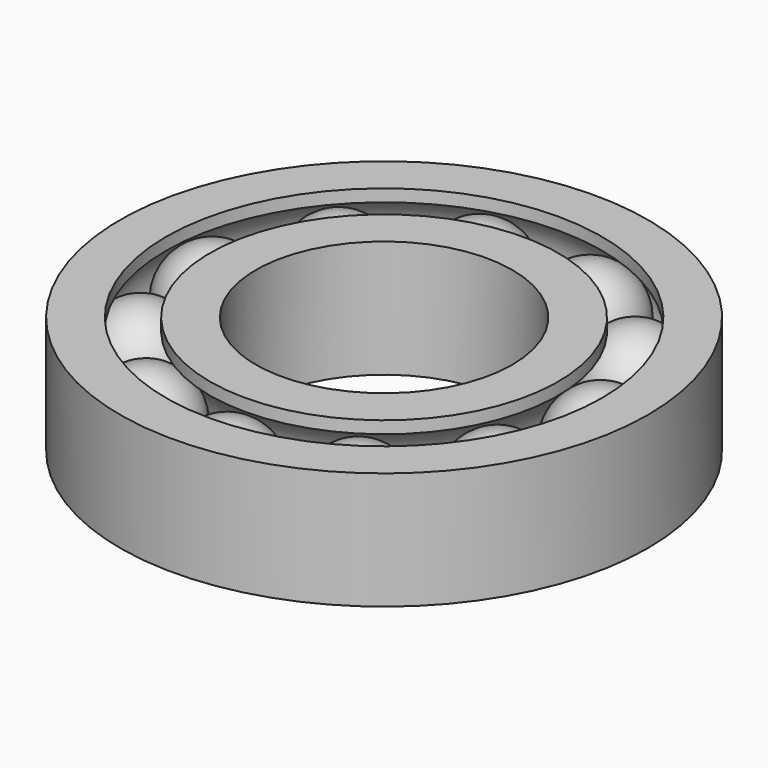
from build123d import *

# Parameters (mm, degrees)
F0_R     = 18
F0_R_2   = 8.75
F1_DEPTH = 8
F6_COUNT = 11
F7_W     = 2.2
F7_H     = 0.3


with BuildPart() as f1:
    # F0 (on Top) → F1 (new body)
    with BuildSketch(Plane.XY):
        Circle(F0_R)
        Circle(F0_R_2, mode=Mode.SUBTRACT)
    extrude(amount=F1_DEPTH)

    # F2 (on Right) → F3 (revolve, cut)
    with BuildSketch(Plane.YZ):
        with BuildLine():
            Line((-13.375, 8), (-14.875, 8))
            Line((-14.875, 8), (-14.875, 7.162278))
            ThreePointArc((-14.875, 7.162278), (-14.143774, 7.414526), (-13.375, 7.5))
            Line((-13.375, 7.5), (-13.375, 8))
        make_face()
        with BuildLine():
            Line((-11.875, 8), (-13.375, 8))
            Line((-13.375, 8), (-13.375, 7.5))
            ThreePointArc((-13.375, 7.5), (-12.606226, 7.414526), (-11.875, 7.162278))
            Line((-11.875, 7.162278), (-11.875, 8))
        make_face()
        with BuildLine():
            ThreePointArc((-13.375, 7.5), (-14.143774, 7.414526), (-14.875, 7.162278))
            ThreePointArc((-14.875, 7.162278), (-16.875, 4), (-14.875, 0.837722))
            ThreePointArc((-14.875, 0.837722), (-14.143774, 0.585474), (-13.375, 0.5))
            Line((-13.375, 0.5), (-13.375, 7.5))
        make_face()
        with BuildLine():
            ThreePointArc((-11.875, 7.162278), (-12.606226, 7.414526), (-13.375, 7.5))
            Line((-13.375, 7.5), (-13.375, 0.5))
            ThreePointArc((-13.375, 0.5), (-12.606226, 0.585474), (-11.875, 0.837722))
            ThreePointArc((-11.875, 0.837722), (-10.41696, 2.129171), (-9.875, 4))
            ThreePointArc((-9.875, 4), (-10.41696, 5.870829), (-11.875, 7.162278))
        make_face()
        with BuildLine():
            ThreePointArc((-13.375, 0.5), (-14.143774, 0.585474), (-14.875, 0.837722))
            Line((-14.875, 0.837722), (-14.875, 0))
            Line((-14.875, 0), (-13.375, 0))
            Line((-13.375, 0), (-13.375, 0.5))
        make_face()
        with BuildLine():
            ThreePointArc((-11.875, 0.837722), (-12.606226, 0.585474), (-13.375, 0.5))
            Line((-13.375, 0.5), (-13.375, 0))
            Line((-13.375, 0), (-11.875, 0))
            Line((-11.875, 0), (-11.875, 0.837722))
        make_face()
    revolve(axis=Axis((0, 0, 8), (0, 0, 1)), mode=Mode.SUBTRACT)


with BuildPart() as f5:
    # F4 (on Right) → F5 (revolve)
    with BuildSketch(Plane.YZ):
        with BuildLine():
            Line((-13.375, 0.65), (-13.375, 7.35))
            ThreePointArc((-13.375, 7.35), (-16.725, 4), (-13.375, 0.65))
        make_face()
        with BuildLine():
            ThreePointArc((-13.375, 0.5), (-13.880294, 0.536667), (-14.375, 0.645898))
            Line((-14.375, 0.645898), (-14.375, 0))
            Line((-14.375, 0), (-13.375, 0))
            Line((-13.375, 0), (-13.375, 0.5))
        make_face()
    revolve(axis=Axis((0, -13.375, 4), (0, 0, -1)))



with BuildPart() as f6_1:
    # F6: instance of F5
    add(f5.part.rotate(Axis((0, 0, 0), (0, 0, 1)), 1 * 360 / F6_COUNT))


with BuildPart() as f6_2:
    # F6: instance of F5
    add(f5.part.rotate(Axis((0, 0, 0), (0, 0, 1)), 2 * 360 / F6_COUNT))


with BuildPart() as f6_3:
    # F6: instance of F5
    add(f5.part.rotate(Axis((0, 0, 0), (0, 0, 1)), 3 * 360 / F6_COUNT))


with BuildPart() as f6_4:
    # F6: instance of F5
    add(f5.part.rotate(Axis((0, 0, 0), (0, 0, 1)), 4 * 360 / F6_COUNT))


with BuildPart() as f6_5:
    # F6: instance of F5
    add(f5.part.rotate(Axis((0, 0, 0), (0, 0, 1)), 5 * 360 / F6_COUNT))


with BuildPart() as f6_6:
    # F6: instance of F5
    add(f5.part.rotate(Axis((0, 0, 0), (0, 0, 1)), 6 * 360 / F6_COUNT))


with BuildPart() as f6_7:
    # F6: instance of F5
    add(f5.part.rotate(Axis((0, 0, 0), (0, 0, 1)), 7 * 360 / F6_COUNT))


with BuildPart() as f6_8:
    # F6: instance of F5
    add(f5.part.rotate(Axis((0, 0, 0), (0, 0, 1)), 8 * 360 / F6_COUNT))


with BuildPart() as f6_9:
    # F6: instance of F5
    add(f5.part.rotate(Axis((0, 0, 0), (0, 0, 1)), 9 * 360 / F6_COUNT))


with BuildPart() as f6_10:
    # F6: instance of F5
    add(f5.part.rotate(Axis((0, 0, 0), (0, 0, 1)), 10 * 360 / F6_COUNT))


with BuildPart() as f5_1:
    add(f5.part)

    add(f6_1.part)  # F8 merges F6_1

    add(f6_2.part)  # F8 merges F6_2

    add(f6_3.part)  # F8 merges F6_3

    add(f6_4.part)  # F8 merges F6_4

    add(f6_5.part)  # F8 merges F6_5

    add(f6_6.part)  # F8 merges F6_6

    add(f6_7.part)  # F8 merges F6_7

    add(f6_8.part)  # F8 merges F6_8

    add(f6_9.part)  # F8 merges F6_9

    add(f6_10.part)  # F8 merges F6_10
    # F7 (on Right) → F8 (revolve)
    with BuildSketch(Plane.YZ):
        with Locations((-13.375, 0.15)):
            Rectangle(F7_W, F7_H)
    revolve(axis=Axis((0, 0, 0), (0, 0, 1)))


solid = Compound([f1.part, f5_1.part])
